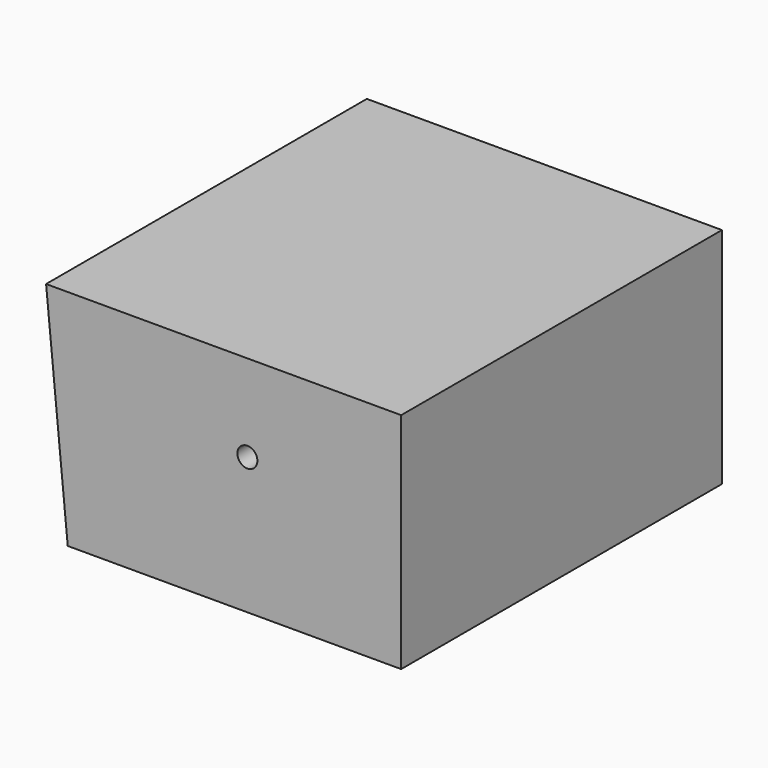
from build123d import *

# Parameters (mm, degrees)
F1_DEPTH = 127
F3_D     = 6.35


with BuildPart() as f1:
    # F0 (on Front) → F1 (new body)
    with BuildSketch(Plane.XZ):
        Polygon((55.382114, 44.232175), (-57.097487, 44.232175), (-50.235987, -26.588315), (55.382114, -26.588315), align=None)
    extrude(amount=F1_DEPTH)

    # F3 (through all)
    with Locations(Plane.XZ.offset(127)):
        with Locations((6.664112, 16.685659)):
            Hole(F3_D / 2)


solid = f1.part
